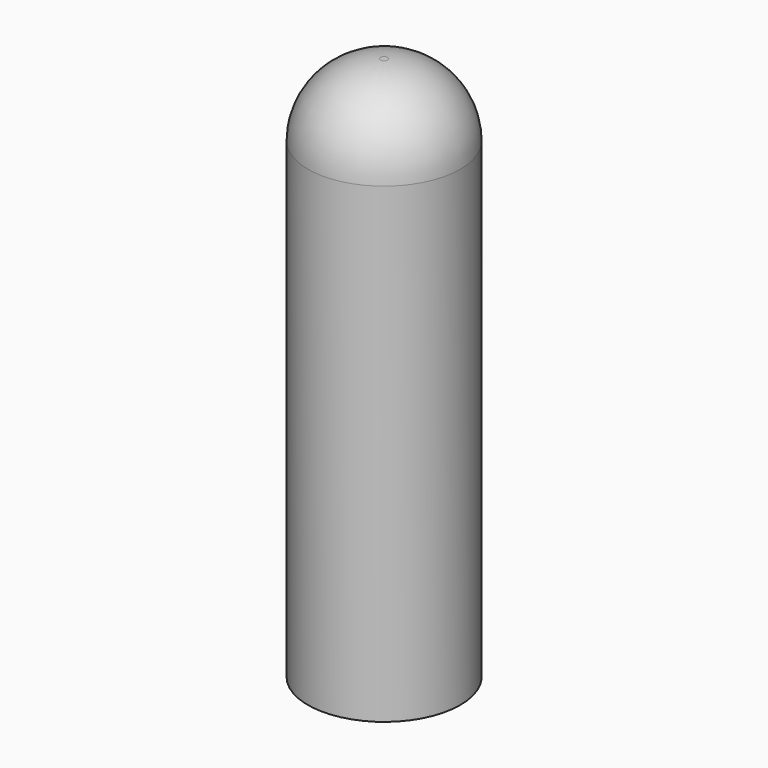
from build123d import *

# Parameters (mm, degrees)
SKETCH_R  = 2.1
PAD_DEPTH = 15
FILLET_R  = 2


with BuildPart() as part:
    # Sketch → Pad (new body)
    with BuildSketch(Plane.XY):
        Circle(SKETCH_R)
    extrude(amount=PAD_DEPTH)

    # Fillet
    fillet_edges = [part.edges().sort_by_distance(p)[0] for p in [
        (-2.1, 0, 15),
    ]]
    fillet(fillet_edges, radius=FILLET_R)


solid = part.part
